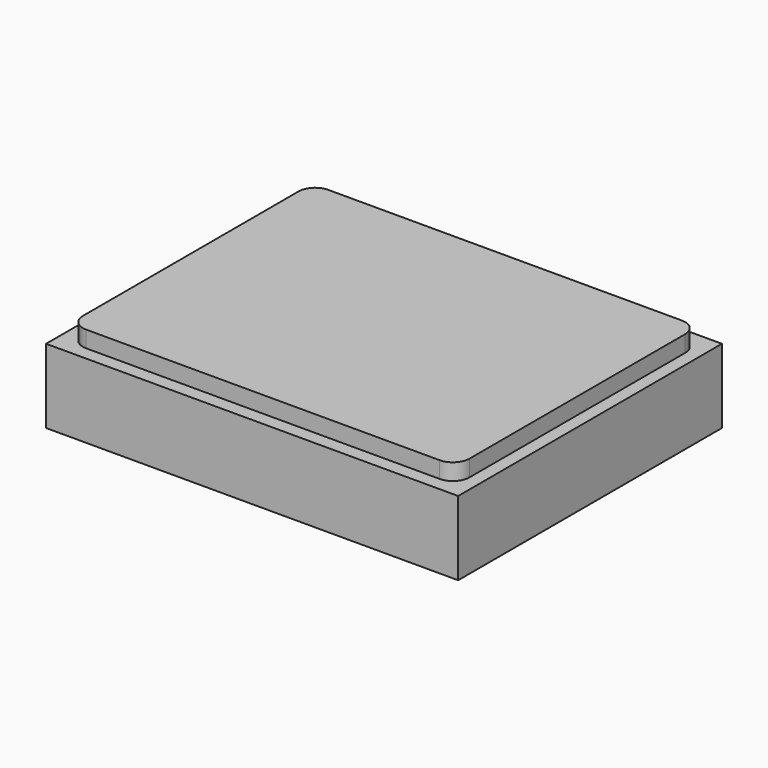
from build123d import *

# Parameters (mm, degrees)
SKETCH_W     = 2.5
SKETCH_H     = 2
PAD_DEPTH    = 0.45
SKETCH001_W  = 2.344842
SKETCH001_H  = 1.835908
PAD001_DEPTH = 0.1
FILLET_R     = 0.1


with BuildPart() as part:
    # Sketch → Pad (new body)
    with BuildSketch(Plane.XY):
        Rectangle(SKETCH_W, SKETCH_H)
    extrude(amount=PAD_DEPTH)

    # Sketch001 (on Face6 of Pad) → Pad001 (join)
    with BuildSketch(Plane.XY.offset(0.45)):
        Rectangle(SKETCH001_W, SKETCH001_H)
    extrude(amount=PAD001_DEPTH)

    # Fillet
    fillet_edges = [part.edges().sort_by_distance(p)[0] for p in [
        (1.172421, -0.917954, 0.5),
        (-1.172421, -0.917954, 0.5),
        (1.172421, 0.917954, 0.5),
        (-1.172421, 0.917954, 0.5),
    ]]
    fillet(fillet_edges, radius=FILLET_R)


solid = part.part
